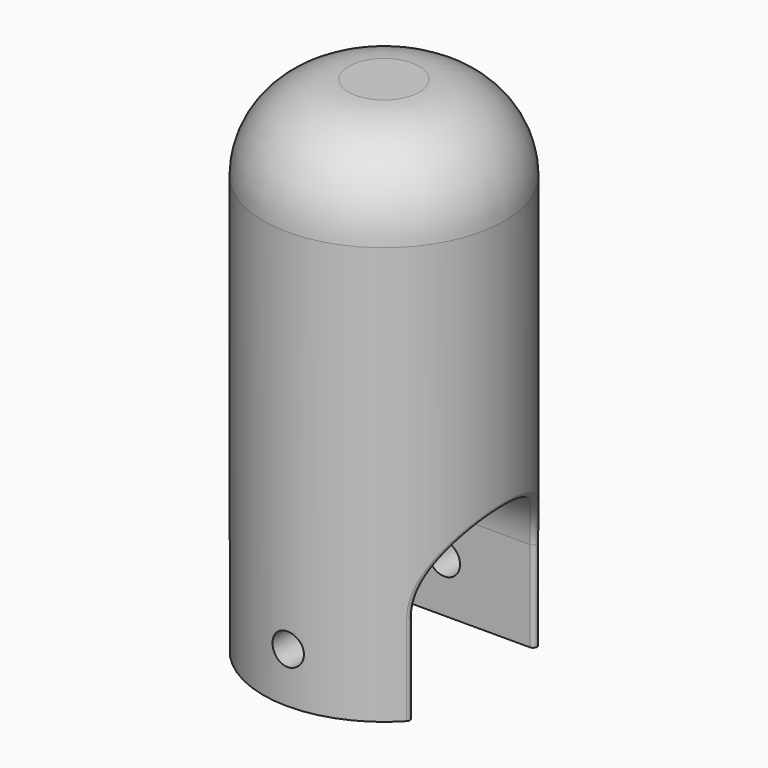
from build123d import *

# Parameters (mm, degrees)
F0_R          = 6.096
F1_DEPTH      = 25.4
F2_R          = 4.318
F3_R          = 0.79375
F4_DEPTH      = 6.097
F4_DEPTH_BACK = 6.097
F6_DEPTH      = 6.0970001
F6_DEPTH_BACK = 6.0970001
F7_R          = 0.2032


with BuildPart() as f1:
    # F0 (on Top) → F1 (new body)
    with BuildSketch(Plane.XY):
        Circle(F0_R)
    extrude(amount=F1_DEPTH)

    # F2
    f2_edges = [f1.edges().sort_by_distance(p)[0] for p in [
        (-6.096, 0, 25.4),
    ]]
    fillet(f2_edges, radius=F2_R)

    # F3 (on Front) → F4 (cut, two sides)
    with BuildSketch(Plane.XZ) as f4_sk:
        with Locations((0, 2.54)):
            Circle(F3_R)
    extrude(amount=-F4_DEPTH, mode=Mode.SUBTRACT)
    extrude(f4_sk.sketch, amount=F4_DEPTH_BACK, mode=Mode.SUBTRACT)

    # F5 (on Right) → F6 (cut, two sides)
    with BuildSketch(Plane.YZ) as f6_sk:
        with BuildLine():
            Line((-3.81, 0), (0, 0))
            Line((0, 0), (3.81, 0))
            Line((3.81, 0), (3.81, 4.572))
            ThreePointArc((3.81, 4.572), (0, 8.382), (-3.81, 4.572))
            Line((-3.81, 4.572), (-3.81, 0))
        make_face()
    extrude(amount=-F6_DEPTH, mode=Mode.SUBTRACT)
    extrude(f6_sk.sketch, amount=F6_DEPTH_BACK, mode=Mode.SUBTRACT)

    # F7
    f7_edges = [f1.edges().sort_by_distance(p)[0] for p in [
        (-4.758688, -3.81, 2.286),
        (4.758688, -3.81, 2.286),
        (5.465335, 2.700246, 7.259894),
        (-6.096, 0, 8.382),
        (5.465335, -2.700246, 7.259894),
        (4.758688, 3.81, 2.286),
        (-4.758688, 3.81, 2.286),
    ]]
    fillet(f7_edges, radius=F7_R)


solid = f1.part
